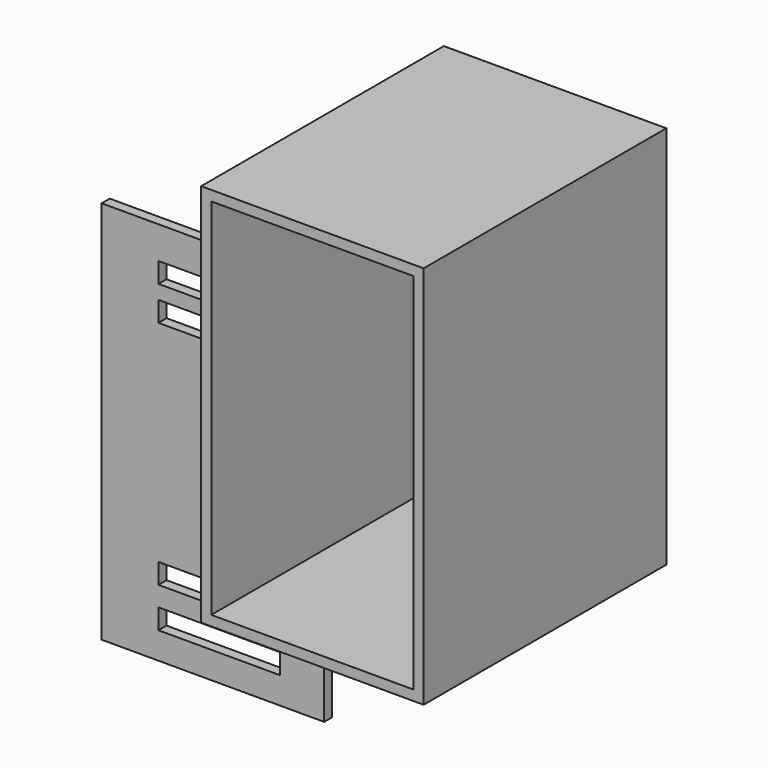
from build123d import *

# Parameters (mm, degrees)
F0_W     = 279.4
F0_H     = 482.6
F1_DEPTH = 381
F2_W     = 279.4
F2_H     = 482.6
F2_W_2   = 152.4
F2_H_2   = 25.4
F3_DEPTH = 12.7
F4_T     = -12.7


with BuildPart() as f1:
    # F0 (on Front) → F1 (new body)
    with BuildSketch(Plane.XZ):
        with Locations((154.511011, 213.662958)):
            Rectangle(F0_W, F0_H)
    extrude(amount=F1_DEPTH)

    # F4
    f4_openings = [f1.faces().sort_by_distance(p)[0] for p in [
        (154.511011, -381, 213.662958),
    ]]
    offset(amount=F4_T, openings=f4_openings)


with BuildPart() as f3:
    # F2 (on Front) → F3 (new body)
    with BuildSketch(Plane.XZ):
        with Locations((-265.07165, -91.436313)):
            Rectangle(F2_W, F2_H)
        with Locations((-257.318326, -286.38365)):
            Rectangle(F2_W_2, F2_H_2, mode=Mode.SUBTRACT)
        with Locations((-257.318326, -236.155054)):
            Rectangle(F2_W_2, F2_H_2, mode=Mode.SUBTRACT)
        with Locations((-257.318326, 53.54757)):
            Rectangle(F2_W_2, F2_H_2, mode=Mode.SUBTRACT)
        with Locations((-257.318326, 96.627915)):
            Rectangle(F2_W_2, F2_H_2, mode=Mode.SUBTRACT)
    extrude(amount=F3_DEPTH)


solid = Compound([f1.part, f3.part])
